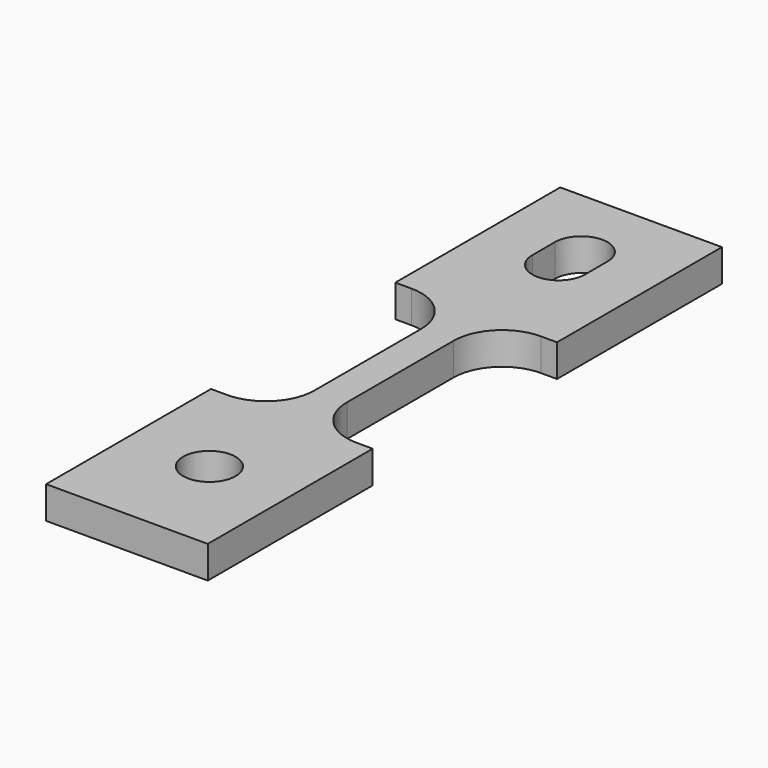
from build123d import *

# Parameters (mm, degrees)
F0_W     = 20
F0_H     = 25.5
F0_R     = 3.25
F1_DEPTH = 4
F2_W     = 4
F2_H     = 28.5
F3_DEPTH = 4
F4_R     = 6


with BuildPart() as f1:
    # F0 (on Top) → F1 (new body)
    with BuildSketch(Plane.XY):
        with Locations((0, 27)):
            Rectangle(F0_W, F0_H)
        with BuildLine():
            Line((-3.25, 27), (-3.25, 30.5))
            ThreePointArc((-3.25, 30.5), (0, 33.75), (3.25, 30.5))
            Line((3.25, 30.5), (3.25, 27))
            ThreePointArc((3.25, 27), (0, 23.75), (-3.25, 27))
        make_face(mode=Mode.SUBTRACT)
        with Locations((0, -27)):
            Rectangle(F0_W, F0_H)
        with Locations((0, -27)):
            Circle(F0_R, mode=Mode.SUBTRACT)
    extrude(amount=F1_DEPTH)

    # F2 (on Top) → F3 (join)
    with BuildSketch(Plane.XY):
        Rectangle(F2_W, F2_H)
    extrude(amount=F3_DEPTH)

    # F4
    f4_edges = [f1.edges().sort_by_distance(p)[0] for p in [
        (-2, 14.25, 2),
        (2, 14.25, 2),
        (2, -14.25, 2),
        (-2, -14.25, 2),
    ]]
    fillet(f4_edges, radius=F4_R)


solid = f1.part
